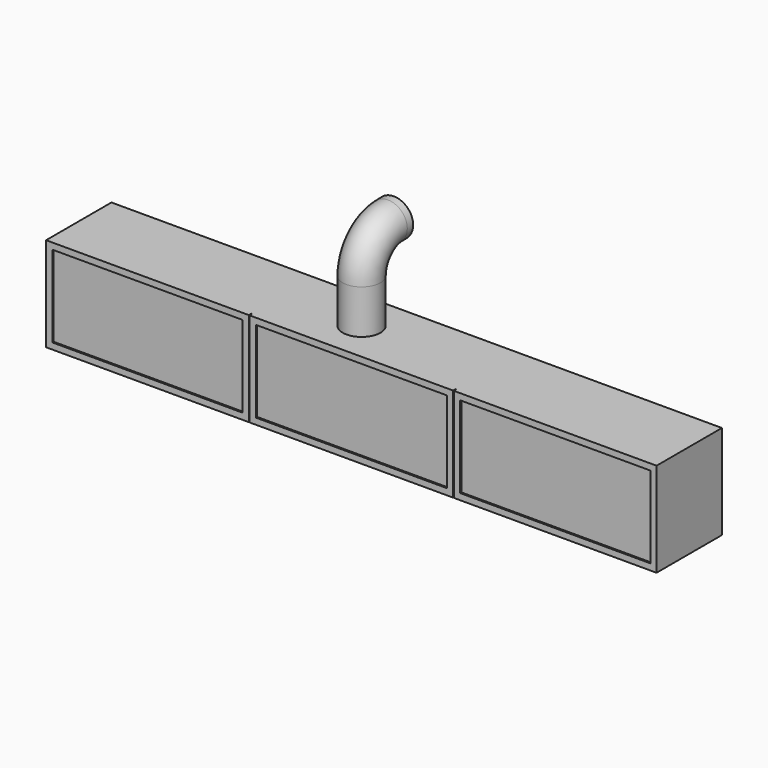
from build123d import *

# Parameters (mm, degrees)
F0_W     = 2466.975
F0_H     = 381
F1_DEPTH = 330.2
F2_W     = 3.175
F2_H     = 381
F3_DEPTH = 12.7
F4_W     = 768.35
F4_H     = 330.2
F4_W_2   = 771.525
F5_DEPTH = 6.35
F6_R     = 76.2


with BuildPart() as f1:
    # F0 (on Front) → F1 (new body)
    with BuildSketch(Plane.XZ):
        Rectangle(F0_W, F0_H)
    extrude(amount=-F1_DEPTH)

    # F2 (on face) → F3 (cut)
    with BuildSketch(Plane.XZ):
        with Locations((-412.75, 0)):
            Rectangle(F2_W, F2_H)
        with Locations((412.75, 0)):
            Rectangle(F2_W, F2_H)
    extrude(amount=-F3_DEPTH, mode=Mode.SUBTRACT)

    # F4 (on face) → F5 (cut)
    with BuildSketch(Plane.XZ):
        with Locations((-823.9125, 0)):
            Rectangle(F4_W, F4_H)
        Rectangle(F4_W_2, F4_H)
        with Locations((823.9125, 0)):
            Rectangle(F4_W, F4_H)
    extrude(amount=-F5_DEPTH, mode=Mode.SUBTRACT)

    # F9: sweep along a path in F8
    with BuildLine(Plane(origin=(-90.4875, 0, 0), x_dir=(0, -1, 0), z_dir=(-1, 0, 0))) as f9_path:
        Line((-165.1, 190.5), (-165.1, 368.3))
        ThreePointArc((-165.1, 368.3), (-204.5570431921, 465.6007688069), (-300.6395792471, 507.9380352882))
        Line((-300.6395792471, 507.9380352882), (-330.2, 508.8187680178))
    # F6 (on face) → F9 (sweep)
    with BuildSketch(Plane.XY.offset(190.5)):
        with Locations((-90.4875, 165.1)):
            Circle(F6_R)
    sweep(path=f9_path.line)


solid = f1.part
